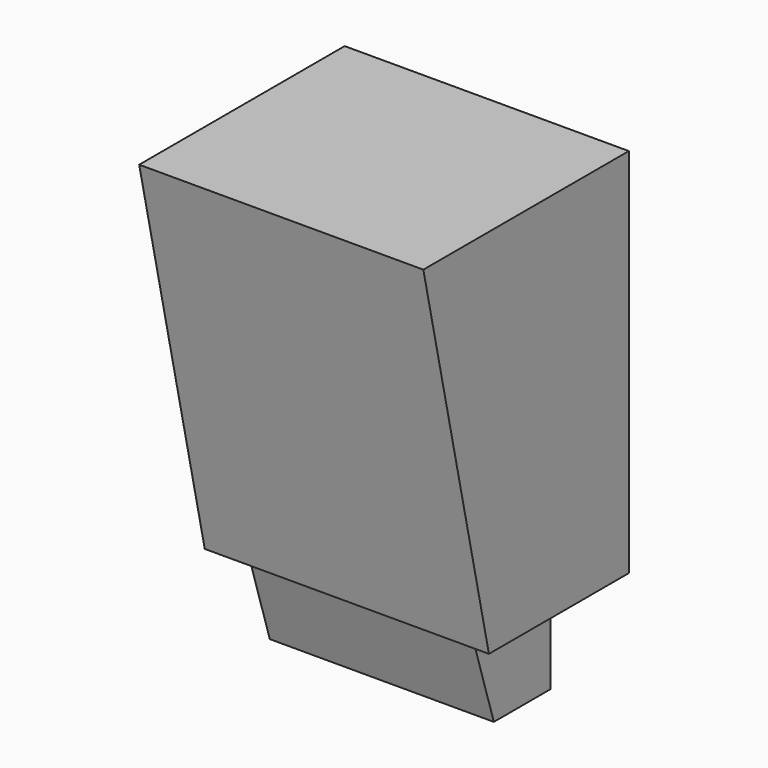
from build123d import *

# Parameters (mm, degrees)
F1_DEPTH = 130
F2_W     = 205
F2_H     = 90
F3_DEPTH = 80
F5_DEPTH = 232.501


with BuildPart() as f1:
    # F0 (on Right) → F1 (new body, symmetric)
    with BuildSketch(Plane.YZ):
        Polygon((117.5, 170), (-117.5, 170), (-42.5, -170), (117.5, -170), align=None)
    extrude(amount=F1_DEPTH, both=True)

    # F2 (on face) → F3 (join)
    with BuildSketch(Plane(origin=(0, 0, -170), x_dir=(1, 0, 0), z_dir=(0, 0, -1))):
        with Locations((0, -17.5)):
            Rectangle(F2_W, F2_H)
    extrude(amount=F3_DEPTH)

    # F4 (on face) → F5 (cut, through all)
    with BuildSketch(Plane(origin=(-102.5, 0, 0), x_dir=(0, -1, 0), z_dir=(-1, 0, 0))):
        Polygon((27.5, -250), (27.5, -170), (2.5, -250), align=None)
    extrude(amount=-F5_DEPTH, mode=Mode.SUBTRACT)


solid = f1.part
